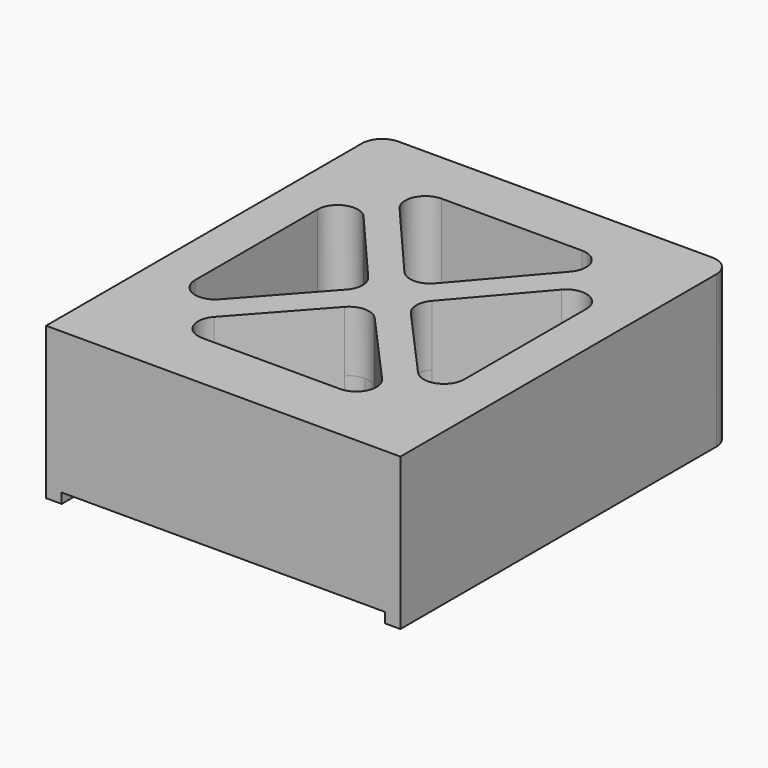
from build123d import *

# Parameters (mm, degrees)
F1_DEPTH = 40
F2_DEPTH = 30
F4_DEPTH = 5


with BuildPart() as f1:
    # F0 (on Top) → F1 (new body)
    with BuildSketch(Plane.XY):
        with BuildLine():
            Line((77.5, 102.5), (-77.5, 102.5))
            ThreePointArc((-77.5, 102.5), (-84.5710678119, 99.5710678119), (-87.5, 92.5))
            Line((-87.5, 92.5), (-87.5, -102.5))
            Line((-87.5, -102.5), (87.5, -102.5))
            Line((87.5, -102.5), (87.5, 92.5))
            ThreePointArc((87.5, 92.5), (84.5710678119, 99.5710678119), (77.5, 102.5))
        make_face()
        with BuildLine():
            Line((34.0369748181, -72.9371830821), (0, -72.9371830821))
            Line((0, -72.9371830821), (-34.0369748181, -72.9371830821))
            ThreePointArc((-34.0369748181, -72.9371830821), (-43.1682512678, -67.0139207973), (-41.4821386363, -56.2611411619))
            Line((-41.4821386363, -56.2611411619), (-7.4451638182, -18.3028933823))
            ThreePointArc((-7.4451638182, -18.3028933823), (-4.0767377152, -15.8476588528), (0, -14.9789353025))
            ThreePointArc((0, -14.9789353025), (4.0767377152, -15.8476588528), (7.4451638182, -18.3028933823))
            Line((7.4451638182, -18.3028933823), (41.4821386363, -56.2611411619))
            ThreePointArc((41.4821386363, -56.2611411619), (43.1682512678, -67.0139207973), (34.0369748181, -72.9371830821))
        make_face(mode=Mode.SUBTRACT)
        with BuildLine():
            ThreePointArc((-15.7237331079, 6.6580487109), (-13.9065454363, 3.5500843616), (-13.3077846694, 0))
            ThreePointArc((-13.3077846694, 0), (-13.9924233337, -3.4998755874), (-15.8616535148, -6.536952761))
            Line((-15.8616535148, -6.536952761), (-48.9902999084, -43.482226985))
            ThreePointArc((-48.9902999084, -43.482226985), (-60.0095623414, -46.1456614468), (-66.4354637265, -36.8061850647))
            Line((-66.4354637265, -36.8061850647), (-66.4354637265, 0))
            Line((-66.4354637265, 0), (-66.4354637265, 38.6755018914))
            ThreePointArc((-66.4354637265, 38.6755018914), (-59.9117518151, 48.0518242582), (-48.8523795015, 45.194461443))
            Line((-48.8523795015, 45.194461443), (-15.7237331079, 6.6580487109))
        make_face(mode=Mode.SUBTRACT)
        with BuildLine():
            ThreePointArc((15.8616535148, -6.536952761), (13.9924233337, -3.4998755874), (13.3077846694, 0))
            ThreePointArc((13.3077846694, 0), (13.9065454363, 3.5500843616), (15.7237331079, 6.6580487109))
            Line((15.7237331079, 6.6580487109), (48.8523795015, 45.194461443))
            ThreePointArc((48.8523795015, 45.194461443), (59.9117518151, 48.0518242582), (66.4354637265, 38.6755018914))
            Line((66.4354637265, 38.6755018914), (66.4354637265, 0))
            Line((66.4354637265, 0), (66.4354637265, -36.8061850647))
            ThreePointArc((66.4354637265, -36.8061850647), (60.0095623414, -46.1456614468), (48.9902999084, -43.482226985))
            Line((48.9902999084, -43.482226985), (15.8616535148, -6.536952761))
        make_face(mode=Mode.SUBTRACT)
        with BuildLine():
            ThreePointArc((7.5830842251, 18.8209116668), (4.1719542473, 16.2517032096), (0, 15.3398712185))
            ThreePointArc((0, 15.3398712185), (-4.1719542473, 16.2517032096), (-7.5830842251, 18.8209116668))
            Line((-7.5830842251, 18.8209116668), (-42.2345889959, 59.1287671034))
            ThreePointArc((-42.2345889959, 59.1287671034), (-43.7396727798, 69.8196809024), (-34.6515047709, 75.647726655))
            Line((-34.6515047709, 75.647726655), (0, 75.647726655))
            Line((0, 75.647726655), (34.6515047709, 75.647726655))
            ThreePointArc((34.6515047709, 75.647726655), (43.7396727798, 69.8196809024), (42.2345889959, 59.1287671034))
            Line((42.2345889959, 59.1287671034), (7.5830842251, 18.8209116668))
        make_face(mode=Mode.SUBTRACT)
    extrude(amount=F1_DEPTH)

    # F0 (on Top) + F1_face (on face) → F2 (join)
    with BuildSketch(Plane.XY):
        with BuildLine():
            Line((77.5, 102.5), (-77.5, 102.5))
            ThreePointArc((-77.5, 102.5), (-84.5710678119, 99.5710678119), (-87.5, 92.5))
            Line((-87.5, 92.5), (-87.5, -102.5))
            Line((-87.5, -102.5), (87.5, -102.5))
            Line((87.5, -102.5), (87.5, 92.5))
            ThreePointArc((87.5, 92.5), (84.5710678119, 99.5710678119), (77.5, 102.5))
        make_face()
        with BuildLine():
            Line((34.0369748181, -72.9371830821), (0, -72.9371830821))
            Line((0, -72.9371830821), (-34.0369748181, -72.9371830821))
            ThreePointArc((-34.0369748181, -72.9371830821), (-43.1682512678, -67.0139207973), (-41.4821386363, -56.2611411619))
            Line((-41.4821386363, -56.2611411619), (-7.4451638182, -18.3028933823))
            ThreePointArc((-7.4451638182, -18.3028933823), (-4.0767377152, -15.8476588528), (0, -14.9789353025))
            ThreePointArc((0, -14.9789353025), (4.0767377152, -15.8476588528), (7.4451638182, -18.3028933823))
            Line((7.4451638182, -18.3028933823), (41.4821386363, -56.2611411619))
            ThreePointArc((41.4821386363, -56.2611411619), (43.1682512678, -67.0139207973), (34.0369748181, -72.9371830821))
        make_face(mode=Mode.SUBTRACT)
        with BuildLine():
            ThreePointArc((-15.7237331079, 6.6580487109), (-13.9065454363, 3.5500843616), (-13.3077846694, 0))
            ThreePointArc((-13.3077846694, 0), (-13.9924233337, -3.4998755874), (-15.8616535148, -6.536952761))
            Line((-15.8616535148, -6.536952761), (-48.9902999084, -43.482226985))
            ThreePointArc((-48.9902999084, -43.482226985), (-60.0095623414, -46.1456614468), (-66.4354637265, -36.8061850647))
            Line((-66.4354637265, -36.8061850647), (-66.4354637265, 0))
            Line((-66.4354637265, 0), (-66.4354637265, 38.6755018914))
            ThreePointArc((-66.4354637265, 38.6755018914), (-59.9117518151, 48.0518242582), (-48.8523795015, 45.194461443))
            Line((-48.8523795015, 45.194461443), (-15.7237331079, 6.6580487109))
        make_face(mode=Mode.SUBTRACT)
        with BuildLine():
            ThreePointArc((15.8616535148, -6.536952761), (13.9924233337, -3.4998755874), (13.3077846694, 0))
            ThreePointArc((13.3077846694, 0), (13.9065454363, 3.5500843616), (15.7237331079, 6.6580487109))
            Line((15.7237331079, 6.6580487109), (48.8523795015, 45.194461443))
            ThreePointArc((48.8523795015, 45.194461443), (59.9117518151, 48.0518242582), (66.4354637265, 38.6755018914))
            Line((66.4354637265, 38.6755018914), (66.4354637265, 0))
            Line((66.4354637265, 0), (66.4354637265, -36.8061850647))
            ThreePointArc((66.4354637265, -36.8061850647), (60.0095623414, -46.1456614468), (48.9902999084, -43.482226985))
            Line((48.9902999084, -43.482226985), (15.8616535148, -6.536952761))
        make_face(mode=Mode.SUBTRACT)
        with BuildLine():
            ThreePointArc((7.5830842251, 18.8209116668), (4.1719542473, 16.2517032096), (0, 15.3398712185))
            ThreePointArc((0, 15.3398712185), (-4.1719542473, 16.2517032096), (-7.5830842251, 18.8209116668))
            Line((-7.5830842251, 18.8209116668), (-42.2345889959, 59.1287671034))
            ThreePointArc((-42.2345889959, 59.1287671034), (-43.7396727798, 69.8196809024), (-34.6515047709, 75.647726655))
            Line((-34.6515047709, 75.647726655), (0, 75.647726655))
            Line((0, 75.647726655), (34.6515047709, 75.647726655))
            ThreePointArc((34.6515047709, 75.647726655), (43.7396727798, 69.8196809024), (42.2345889959, 59.1287671034))
            Line((42.2345889959, 59.1287671034), (7.5830842251, 18.8209116668))
        make_face(mode=Mode.SUBTRACT)
        with BuildLine():
            Line((-66.4354637265, 0), (-13.3077846694, 0))
            ThreePointArc((-13.3077846694, 0), (-13.9065454363, 3.5500843616), (-15.7237331079, 6.6580487109))
            Line((-15.7237331079, 6.6580487109), (-48.8523795015, 45.194461443))
            ThreePointArc((-48.8523795015, 45.194461443), (-59.9117518151, 48.0518242582), (-66.4354637265, 38.6755018914))
            Line((-66.4354637265, 38.6755018914), (-66.4354637265, 0))
        make_face()
        with BuildLine():
            ThreePointArc((-7.5830842251, 18.8209116668), (-4.1719542473, 16.2517032096), (0, 15.3398712185))
            Line((0, 15.3398712185), (0, 75.647726655))
            Line((0, 75.647726655), (-34.6515047709, 75.647726655))
            ThreePointArc((-34.6515047709, 75.647726655), (-43.7396727798, 69.8196809024), (-42.2345889959, 59.1287671034))
            Line((-42.2345889959, 59.1287671034), (-7.5830842251, 18.8209116668))
        make_face()
        with BuildLine():
            Line((0, 75.647726655), (0, 15.3398712185))
            ThreePointArc((0, 15.3398712185), (4.1719542473, 16.2517032096), (7.5830842251, 18.8209116668))
            Line((7.5830842251, 18.8209116668), (42.2345889959, 59.1287671034))
            ThreePointArc((42.2345889959, 59.1287671034), (43.7396727798, 69.8196809024), (34.6515047709, 75.647726655))
            Line((34.6515047709, 75.647726655), (0, 75.647726655))
        make_face()
        with BuildLine():
            ThreePointArc((15.7237331079, 6.6580487109), (13.9065454363, 3.5500843616), (13.3077846694, 0))
            Line((13.3077846694, 0), (66.4354637265, 0))
            Line((66.4354637265, 0), (66.4354637265, 38.6755018914))
            ThreePointArc((66.4354637265, 38.6755018914), (59.9117518151, 48.0518242582), (48.8523795015, 45.194461443))
            Line((48.8523795015, 45.194461443), (15.7237331079, 6.6580487109))
        make_face()
        with BuildLine():
            Line((66.4354637265, 0), (13.3077846694, 0))
            ThreePointArc((13.3077846694, 0), (13.9924233337, -3.4998755874), (15.8616535148, -6.536952761))
            Line((15.8616535148, -6.536952761), (48.9902999084, -43.482226985))
            ThreePointArc((48.9902999084, -43.482226985), (60.0095623414, -46.1456614468), (66.4354637265, -36.8061850647))
            Line((66.4354637265, -36.8061850647), (66.4354637265, 0))
        make_face()
        with BuildLine():
            Line((0, -14.9789353025), (0, -72.9371830821))
            Line((0, -72.9371830821), (34.0369748181, -72.9371830821))
            ThreePointArc((34.0369748181, -72.9371830821), (43.1682512678, -67.0139207973), (41.4821386363, -56.2611411619))
            Line((41.4821386363, -56.2611411619), (7.4451638182, -18.3028933823))
            ThreePointArc((7.4451638182, -18.3028933823), (4.0767377152, -15.8476588528), (0, -14.9789353025))
        make_face()
        with BuildLine():
            Line((-34.0369748181, -72.9371830821), (0, -72.9371830821))
            Line((0, -72.9371830821), (0, -14.9789353025))
            ThreePointArc((0, -14.9789353025), (-4.0767377152, -15.8476588528), (-7.4451638182, -18.3028933823))
            Line((-7.4451638182, -18.3028933823), (-41.4821386363, -56.2611411619))
            ThreePointArc((-41.4821386363, -56.2611411619), (-43.1682512678, -67.0139207973), (-34.0369748181, -72.9371830821))
        make_face()
        with BuildLine():
            ThreePointArc((-15.8616535148, -6.536952761), (-13.9924233337, -3.4998755874), (-13.3077846694, 0))
            Line((-13.3077846694, 0), (-66.4354637265, 0))
            Line((-66.4354637265, 0), (-66.4354637265, -36.8061850647))
            ThreePointArc((-66.4354637265, -36.8061850647), (-60.0095623414, -46.1456614468), (-48.9902999084, -43.482226985))
            Line((-48.9902999084, -43.482226985), (-15.8616535148, -6.536952761))
        make_face()
    with BuildSketch(Plane(origin=(0, -1.0794755955, 40), x_dir=(1, 0, 0), z_dir=(0, 0, 1))):
        with BuildLine():
            Line((77.5, 103.5794755955), (-77.5, 103.5794755955))
            ThreePointArc((-77.5, 103.5794755955), (-84.5710678119, 100.6505434074), (-87.5, 93.5794755955))
            Line((-87.5, 93.5794755955), (-87.5, -101.4205244045))
            Line((-87.5, -101.4205244045), (87.5, -101.4205244045))
            Line((87.5, -101.4205244045), (87.5, 93.5794755955))
            ThreePointArc((87.5, 93.5794755955), (84.5710678119, 100.6505434074), (77.5, 103.5794755955))
        make_face()
        with BuildLine():
            ThreePointArc((41.4821386363, -55.1816655664), (43.1682512678, -65.9344452018), (34.0369748181, -71.8577074866))
            Line((34.0369748181, -71.8577074866), (-34.0369748181, -71.8577074866))
            ThreePointArc((-34.0369748181, -71.8577074866), (-43.1682512678, -65.9344452018), (-41.4821386363, -55.1816655664))
            Line((-41.4821386363, -55.1816655664), (-7.4451638182, -17.2234177868))
            ThreePointArc((-7.4451638182, -17.2234177868), (0, -13.899459707), (7.4451638182, -17.2234177868))
            Line((7.4451638182, -17.2234177868), (41.4821386363, -55.1816655664))
        make_face(mode=Mode.SUBTRACT)
        with BuildLine():
            ThreePointArc((-15.7237331079, 7.7375243064), (-13.3073635592, 1.1140457264), (-15.8616535148, -5.4574771655))
            Line((-15.8616535148, -5.4574771655), (-48.9902999084, -42.4027513895))
            ThreePointArc((-48.9902999084, -42.4027513895), (-60.0095623414, -45.0661858513), (-66.4354637265, -35.7267094692))
            Line((-66.4354637265, -35.7267094692), (-66.4354637265, 39.7549774869))
            ThreePointArc((-66.4354637265, 39.7549774869), (-59.9117518151, 49.1312998537), (-48.8523795015, 46.2739370385))
            Line((-48.8523795015, 46.2739370385), (-15.7237331079, 7.7375243064))
        make_face(mode=Mode.SUBTRACT)
        with BuildLine():
            Line((48.9902999084, -42.4027513895), (15.8616535148, -5.4574771655))
            ThreePointArc((15.8616535148, -5.4574771655), (13.3073635592, 1.1140457264), (15.7237331079, 7.7375243064))
            Line((15.7237331079, 7.7375243064), (48.8523795015, 46.2739370385))
            ThreePointArc((48.8523795015, 46.2739370385), (59.9117518151, 49.1312998537), (66.4354637265, 39.7549774869))
            Line((66.4354637265, 39.7549774869), (66.4354637265, -35.7267094692))
            ThreePointArc((66.4354637265, -35.7267094692), (60.0095623414, -45.0661858513), (48.9902999084, -42.4027513895))
        make_face(mode=Mode.SUBTRACT)
        with BuildLine():
            Line((42.2345889959, 60.2082426989), (7.5830842251, 19.9003872623))
            ThreePointArc((7.5830842251, 19.9003872623), (0, 16.419346814), (-7.5830842251, 19.9003872623))
            Line((-7.5830842251, 19.9003872623), (-42.2345889959, 60.2082426989))
            ThreePointArc((-42.2345889959, 60.2082426989), (-43.7396727798, 70.8991564979), (-34.6515047709, 76.7272022505))
            Line((-34.6515047709, 76.7272022505), (34.6515047709, 76.7272022505))
            ThreePointArc((34.6515047709, 76.7272022505), (43.7396727798, 70.8991564979), (42.2345889959, 60.2082426989))
        make_face(mode=Mode.SUBTRACT)
    extrude(amount=F2_DEPTH)

    # F3 (on face) → F4 (join)
    with BuildSketch(Plane(origin=(0, 0, 0), x_dir=(1, 0, 0), z_dir=(0, 0, -1))):
        with BuildLine():
            Line((77.5, -94.8000022769), (-77.5, -94.8000022769))
            ThreePointArc((-77.5, -94.8000022769), (-79.1263472067, -94.1263472067), (-79.8000022769, -92.5))
            Line((-79.8000022769, -92.5), (-79.8000022769, 87.0887190104))
            Line((-79.8000022769, 87.0887190104), (-79.8000022769, 94.8000022769))
            Line((-79.8000022769, 94.8000022769), (-79.8000022769, 102.5))
            Line((-79.8000022769, 102.5), (-87.5, 102.5))
            Line((-87.5, 102.5), (-87.5, -92.5))
            ThreePointArc((-87.5, -92.5), (-84.5710678119, -99.5710678119), (-77.5, -102.5))
            Line((-77.5, -102.5), (77.5, -102.5))
            ThreePointArc((77.5, -102.5), (84.5710678119, -99.5710678119), (87.5, -92.5))
            Line((87.5, -92.5), (87.5, 102.5))
            Line((87.5, 102.5), (79.8000022769, 102.5))
            Line((79.8000022769, 102.5), (79.8000022769, 94.8000022769))
            Line((79.8000022769, 94.8000022769), (79.8000022769, 83.8265269995))
            Line((79.8000022769, 83.8265269995), (79.8000022769, -92.5))
            ThreePointArc((79.8000022769, -92.5), (79.1263472067, -94.1263472067), (77.5, -94.8000022769))
        make_face()
    extrude(amount=F4_DEPTH)


solid = f1.part
